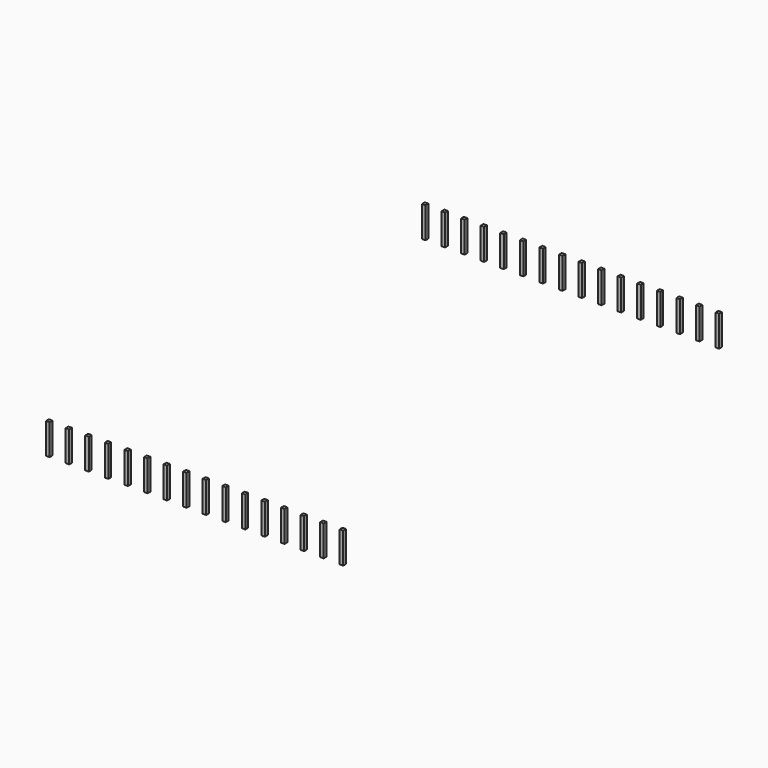
from build123d import *

# Parameters (mm, degrees)
BOX002_W      = 0.46
BOX002_H      = 0.46
BOX002_DEPTH  = 4
ARRAY_X_COUNT = 16
ARRAY_X_PITCH = 2.54
ARRAY_Y_COUNT = 2
ARRAY_Y_PITCH = 60.96


with BuildPart() as part:
    # Box002 → Box002 (new body)
    with BuildSketch(Plane(origin=(-0.23, -0.23, -5), x_dir=(1, 0, 0), z_dir=(0, 0, 1))):
        with Locations((0.23, 0.23)):
            Rectangle(BOX002_W, BOX002_H)
    extrude(amount=BOX002_DEPTH)

    # Array X: part ×16


with BuildPart() as part_1:
    add(part.part)
    with Locations(*[(i * ARRAY_X_PITCH, 0, 0) for i in range(1, ARRAY_X_COUNT)]):
        add(part.part)

    # Array Y: part ×2


with BuildPart() as part_2:
    add(part_1.part)
    with Locations(*[(0, -i * ARRAY_Y_PITCH, 0) for i in range(1, ARRAY_Y_COUNT)]):
        add(part_1.part)


with BuildPart() as part_3:
    # Array placement: moved
    add(part_2.part.moved(Location((0, 0, 2))))


solid = part_3.part
